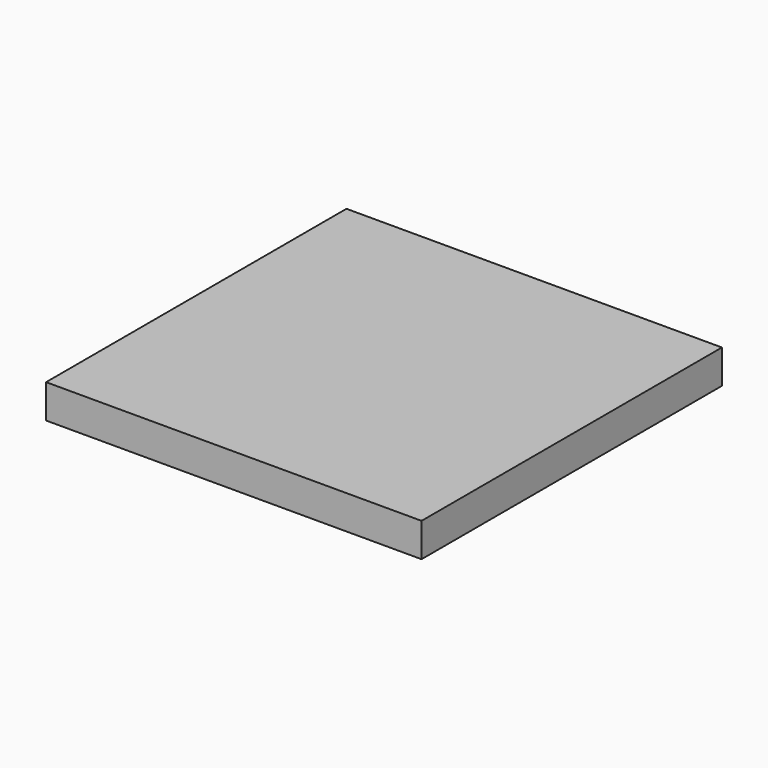
from build123d import *

# Parameters (mm, degrees)
SKETCH_W      = 10
SKETCH_H      = 10
EXTRUDE_DEPTH = 0.9


with BuildPart() as part:
    # Sketch → Extrude (new body)
    with BuildSketch(Plane.XY):
        with Locations((5, 5)):
            Rectangle(SKETCH_W, SKETCH_H)
    extrude(amount=EXTRUDE_DEPTH)


solid = part.part
